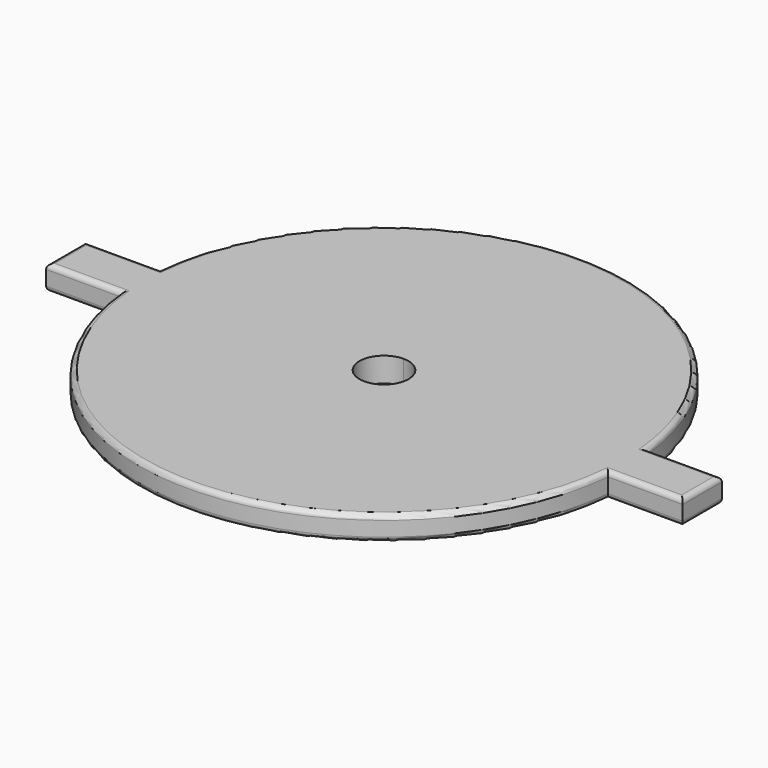
from build123d import *

# Parameters (mm, degrees)
F3_DEPTH = 1.27
F1_R     = 0.254
F2_R     = 0.254


with BuildPart() as f3:
    # F0 (on Top) → F3 (new body)
    with BuildSketch(Plane.XY):
        with BuildLine():
            ThreePointArc((-12.6363404513, -1.27), (0, -12.7), (12.6363404513, -1.27))
            Line((12.6363404513, -1.27), (0, -1.27))
            Line((0, -1.27), (-12.6363404513, -1.27))
        make_face()
        with BuildLine():
            Line((6.5e-09, 1.27), (12.6363404513, 1.27))
            ThreePointArc((12.6363404513, 1.27), (0, 12.7), (-12.6363404513, 1.27))
            Line((-12.6363404513, 1.27), (6.5e-09, 1.27))
        make_face()
        with BuildLine():
            ThreePointArc((12.6363404513, 1.27), (12.6840751285, 0.6357972433), (12.7, 0))
            ThreePointArc((12.7, 0), (12.6840751285, -0.6357972433), (12.6363404513, -1.27))
            Line((12.6363404513, -1.27), (16.51, -1.27))
            Line((16.51, -1.27), (16.51, 1.27))
            Line((16.51, 1.27), (12.6363404513, 1.27))
        make_face()
        with BuildLine():
            Line((6.5e-09, 1.27), (-12.6363404513, 1.27))
            ThreePointArc((-12.6363404513, 1.27), (-12.7, 0), (-12.6363404513, -1.27))
            Line((-12.6363404513, -1.27), (0, -1.27))
            ThreePointArc((0, -1.27), (-1.27, 3.2e-09), (6.5e-09, 1.27))
        make_face()
        with BuildLine():
            ThreePointArc((-12.6363404513, -1.27), (-12.7, 0), (-12.6363404513, 1.27))
            Line((-12.6363404513, 1.27), (-16.51, 1.27))
            Line((-16.51, 1.27), (-16.51, -1.27))
            Line((-16.51, -1.27), (-12.6363404513, -1.27))
        make_face()
        with BuildLine():
            ThreePointArc((12.6363404513, -1.27), (12.6840751285, -0.6357972433), (12.7, 0))
            ThreePointArc((12.7, 0), (12.6840751285, 0.6357972433), (12.6363404513, 1.27))
            Line((12.6363404513, 1.27), (6.5e-09, 1.27))
            ThreePointArc((6.5e-09, 1.27), (0.8980256144, 0.8980256098), (1.27, 0))
            ThreePointArc((1.27, 0), (0.8980256121, -0.8980256121), (0, -1.27))
            Line((0, -1.27), (12.6363404513, -1.27))
        make_face()
    extrude(amount=F3_DEPTH)

    # F1
    f1_edges = [f3.edges().sort_by_distance(p)[0] for p in [
        (0, 12.7, 1.27),
        (-14.57317, 1.27, 1.27),
        (-14.57317, -1.27, 1.27),
        (0, -12.7, 1.27),
        (-16.51, 0, 1.27),
        (14.57317, 1.27, 1.27),
        (14.57317, -1.27, 1.27),
        (16.51, 0, 1.27),
    ]]
    fillet(f1_edges, radius=F1_R)

    # F2
    f2_edges = [f3.edges().sort_by_distance(p)[0] for p in [
        (14.57317, -1.27, 0),
        (16.51, 0, 0),
        (14.57317, 1.27, 0),
        (0, 12.7, 0),
        (-14.57317, 1.27, 0),
        (-14.57317, -1.27, 0),
        (0, -12.7, 0),
        (-16.51, 0, 0),
    ]]
    fillet(f2_edges, radius=F2_R)


solid = f3.part
